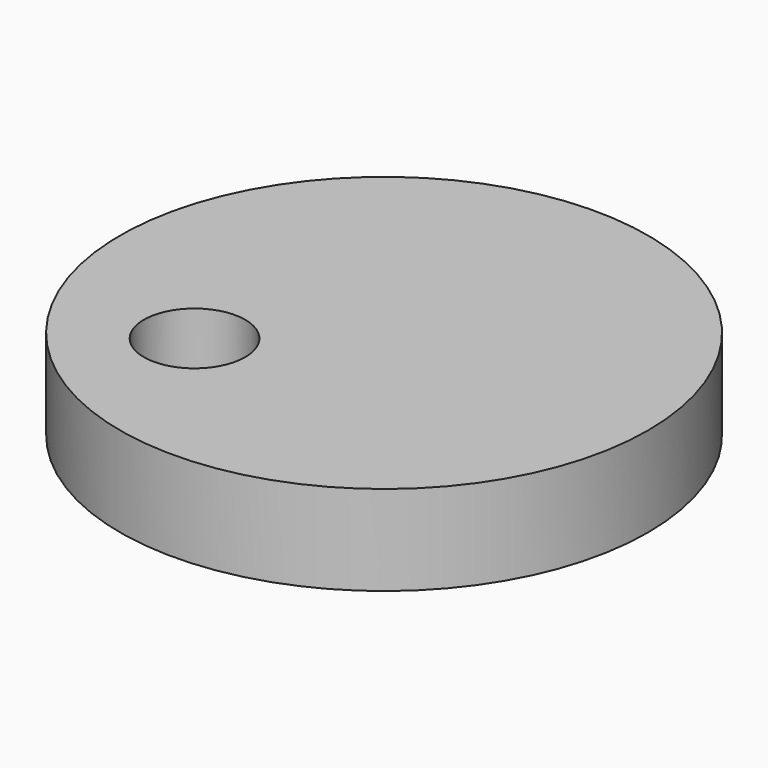
from build123d import *

# Parameters (mm, degrees)
SKETCH_R     = 44.058253
PAD_DEPTH    = 15
SKETCH001_R  = 8.457796
POCKET_DEPTH = 15


with BuildPart() as part:
    # Sketch → Pad (new body)
    with BuildSketch(Plane.XY):
        with Locations((-26.701225, -18.047262)):
            Circle(SKETCH_R)
    extrude(amount=PAD_DEPTH)

    # Sketch001 (on Face3 of Pad) → Pocket (cut)
    with BuildSketch(Plane.XY.offset(15)):
        with Locations((-45.022324, -34.695354)):
            Circle(SKETCH001_R)
    extrude(amount=-POCKET_DEPTH, mode=Mode.SUBTRACT)


solid = part.part
